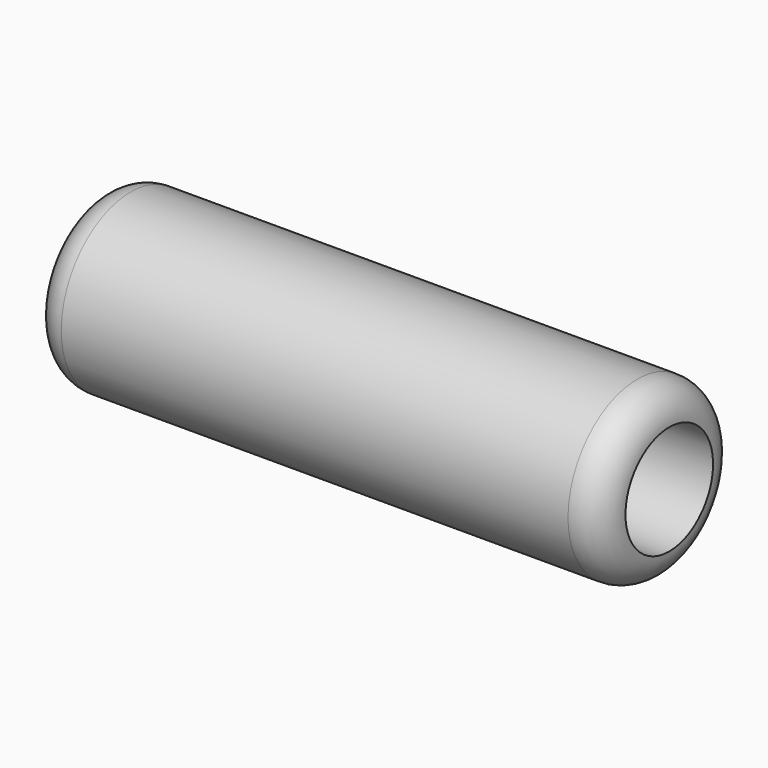
from build123d import *


with BuildPart() as f1:
    # F0 (on Front) → F1 (revolve)
    with BuildSketch(Plane.XZ):
        with BuildLine():
            ThreePointArc((0, -2.6162), (1.859872, -7.106328), (6.35, -8.9662))
            Line((6.35, -8.9662), (107.1626, -8.9662))
            ThreePointArc((107.1626, -8.9662), (111.652728, -7.106328), (113.5126, -2.6162))
            Line((113.5126, -2.6162), (3.9624, -2.6162))
            Line((3.9624, -2.6162), (3.9624, 5.8928))
            Line((3.9624, 5.8928), (0, 5.8928))
            Line((0, 5.8928), (0, -2.6162))
        make_face()
    revolve(axis=Axis((12.4968, 0, 8.27405), (1, 0, 0)))


solid = f1.part
